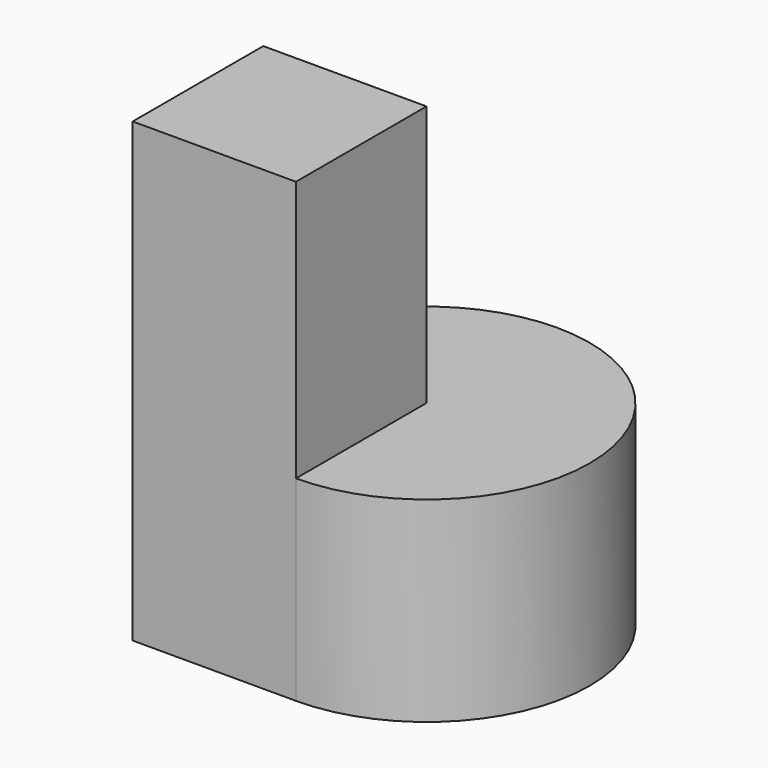
from build123d import *

# Parameters (mm, degrees)
F0_R     = 50
F1_DEPTH = 60
F3_DEPTH = 80
F4_W     = 50
F4_H     = 50
F5_DEPTH = 140


with BuildPart() as f1:
    # F0 (on Top) → F1 (new body)
    with BuildSketch(Plane.XY):
        Circle(F0_R)
    extrude(amount=F1_DEPTH)

    # F2 (on face) → F3 (cut)
    with BuildSketch(Plane.XY.offset(60)):
        with BuildLine():
            Line((0, -50), (0, 0))
            Line((0, 0), (-50, 0))
            ThreePointArc((-50, 0), (-35.355339, -35.355339), (0, -50))
        make_face()
    extrude(amount=-F3_DEPTH, mode=Mode.SUBTRACT)

    # F4 (on Top) → F5 (join)
    with BuildSketch(Plane.XY):
        with Locations((-25, -25)):
            Rectangle(F4_W, F4_H)
    extrude(amount=F5_DEPTH)


solid = f1.part
